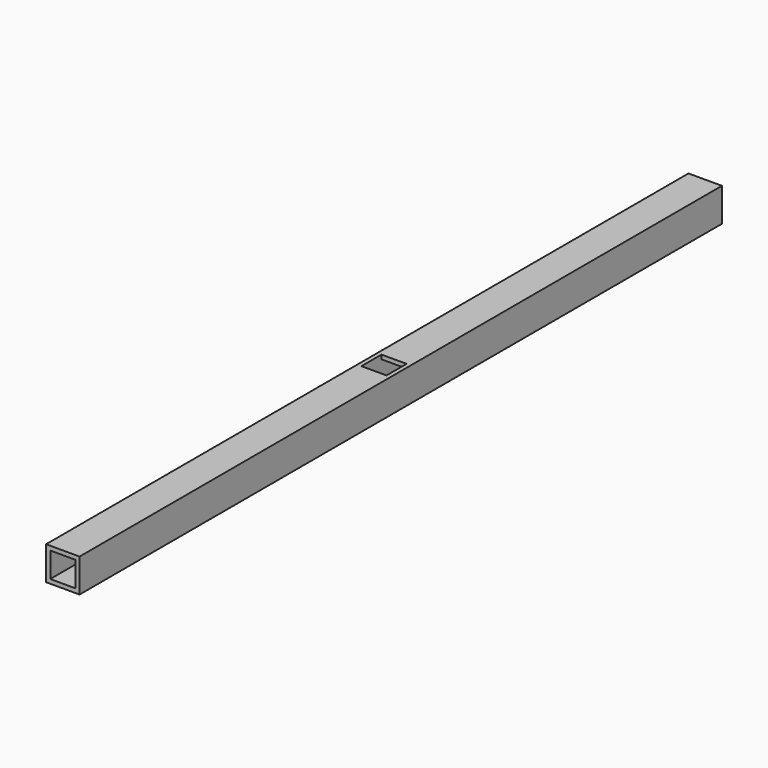
from build123d import *

# Parameters (mm, degrees)
F0_W     = 25.4
F0_H     = 25.4
F0_W_2   = 19.05
F0_H_2   = 19.05
F1_DEPTH = 609.6
F2_W     = 19.05
F2_H     = 19.05
F3_DEPTH = 19.05


with BuildPart() as f1:
    # F0 (on Front) → F1 (new body)
    with BuildSketch(Plane.XZ):
        with Locations((-9.525, 9.525)):
            Rectangle(F0_W, F0_H)
        with Locations((-9.525, 9.525)):
            Rectangle(F0_W_2, F0_H_2, mode=Mode.SUBTRACT)
    extrude(amount=F1_DEPTH)

    # F2 (on face) → F3 (cut)
    with BuildSketch(Plane.XY.offset(22.225)):
        with Locations((-9.525, -304.8)):
            Rectangle(F2_W, F2_H)
    extrude(amount=-F3_DEPTH, mode=Mode.SUBTRACT)


solid = f1.part
